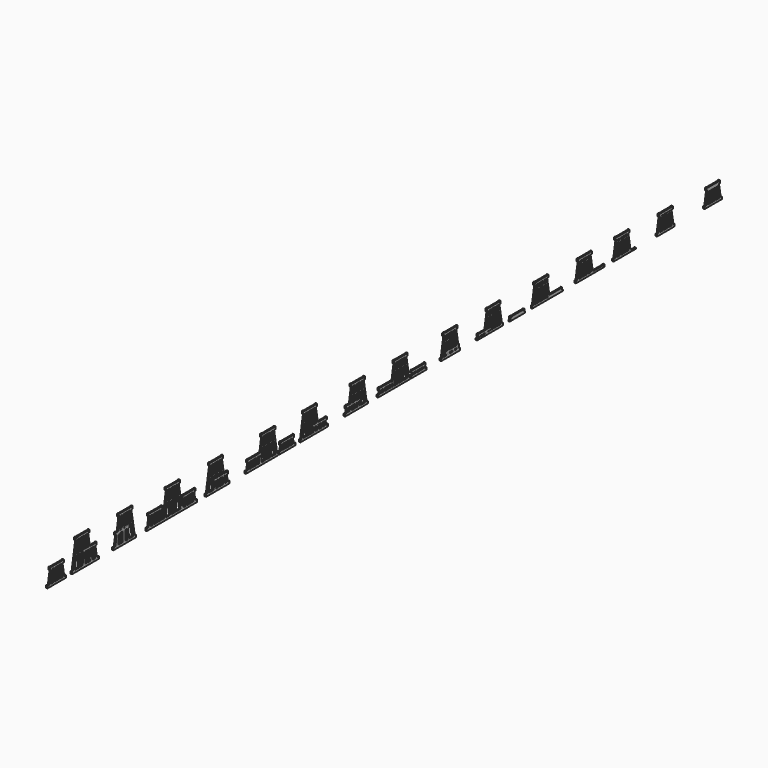
from build123d import *

# Parameters (mm, degrees)
F2_DEPTH = 5
F3_DEPTH = 5


with BuildPart() as f2:
    # F0 (on Right) → F2 (new body)
    with BuildSketch(Plane.YZ):
        Polygon((197.092332, 104.5), (172.592332, 104.5), (172.592332, 102.5), (172.092332, 102.5), (172.092332, 105.5), (167.092332, 105.5), (167.092332, 96.5), (172.592332, 96.5), (156.987394, 8), (151.987394, 8), (151.987394, 0), (242.19727, 0), (242.19727, 8), (237.19727, 8), (221.592332, 96.5), (227.092332, 96.5), (227.092332, 105.5), (222.092332, 105.5), (222.092332, 102.5), (221.592332, 102.5), (221.592332, 104.5), align=None)
        Polygon((184.592332, 8), (164.487394, 8), (170.677071, 49.8), (184.592332, 49.8), align=None, mode=Mode.SUBTRACT)
        Polygon((189.592332, 8), (189.592332, 49.8), (197.092332, 49.8), (204.592332, 49.8), (204.592332, 8), (197.092332, 8), align=None, mode=Mode.SUBTRACT)
        Polygon((209.592332, 8), (209.592332, 49.8), (223.507593, 49.8), (229.69727, 8), align=None, mode=Mode.SUBTRACT)
        Polygon((171.417463, 54.8), (177.592332, 96.5), (184.592332, 96.5), (184.592332, 54.8), align=None, mode=Mode.SUBTRACT)
        Polygon((197.092332, 54.8), (189.592332, 54.8), (189.592332, 96.5), (197.092332, 96.5), (204.592332, 96.5), (204.592332, 54.8), align=None, mode=Mode.SUBTRACT)
        Polygon((222.767201, 54.8), (209.592332, 54.8), (209.592332, 96.5), (216.592332, 96.5), align=None, mode=Mode.SUBTRACT)
        Polygon((383.200377, 100.6), (358.700377, 100.6), (358.700377, 98.6), (358.200377, 98.6), (358.200377, 101.6), (353.200377, 101.6), (353.200377, 92.6), (358.700377, 92.6), (343.783115, 8), (338.783115, 8), (338.783115, 0), (427.61764, 0), (427.61764, 8), (422.61764, 8), (407.700377, 92.6), (413.200377, 92.6), (413.200377, 101.6), (408.200377, 101.6), (408.200377, 98.6), (407.700377, 98.6), (407.700377, 100.6), align=None)
        Polygon((370.700377, 8), (351.283115, 8), (357.418358, 49.8), (370.700377, 49.8), align=None, mode=Mode.SUBTRACT)
        Polygon((375.700377, 8), (375.700377, 49.8), (383.200377, 49.8), (390.700377, 49.8), (390.700377, 8), (383.200377, 8), align=None, mode=Mode.SUBTRACT)
        Polygon((395.700377, 8), (395.700377, 49.8), (408.982397, 49.8), (415.11764, 8), align=None, mode=Mode.SUBTRACT)
        Polygon((358.152239, 54.8), (363.700377, 92.6), (370.700377, 92.6), (370.700377, 54.8), align=None, mode=Mode.SUBTRACT)
        Polygon((383.200377, 54.8), (375.700377, 54.8), (375.700377, 92.6), (383.200377, 92.6), (390.700377, 92.6), (390.700377, 54.8), align=None, mode=Mode.SUBTRACT)
        Polygon((408.248516, 54.8), (395.700377, 54.8), (395.700377, 92.6), (402.700377, 92.6), align=None, mode=Mode.SUBTRACT)
        Polygon((587.840416, 96.7), (563.340416, 96.7), (563.340416, 94.7), (562.840416, 94.7), (562.840416, 97.7), (557.840416, 97.7), (557.840416, 88.7), (563.340416, 88.7), (549.110828, 8), (544.110828, 8), (544.110828, 0), (631.570003, 0), (631.570003, 8), (626.570003, 8), (612.340416, 88.7), (617.840416, 88.7), (617.840416, 97.7), (612.840416, 97.7), (612.840416, 94.7), (612.340416, 94.7), (612.340416, 96.7), align=None)
        Polygon((575.340416, 8), (556.610828, 8), (562.686377, 49.8), (575.340416, 49.8), align=None, mode=Mode.SUBTRACT)
        Polygon((580.340416, 8), (580.340416, 49.8), (587.840416, 49.8), (595.340416, 49.8), (595.340416, 8), (587.840416, 8), align=None, mode=Mode.SUBTRACT)
        Polygon((600.340416, 8), (600.340416, 49.8), (612.994455, 49.8), (619.070003, 8), align=None, mode=Mode.SUBTRACT)
        Polygon((563.413117, 54.8), (568.340416, 88.7), (575.340416, 88.7), (575.340416, 54.8), align=None, mode=Mode.SUBTRACT)
        Polygon((587.840416, 54.8), (580.340416, 54.8), (580.340416, 88.7), (587.840416, 88.7), (595.340416, 88.7), (595.340416, 54.8), align=None, mode=Mode.SUBTRACT)
        Polygon((612.267714, 54.8), (600.340416, 54.8), (600.340416, 88.7), (607.340416, 88.7), align=None, mode=Mode.SUBTRACT)
        Polygon((773.948461, 95.8), (749.448461, 95.8), (749.448461, 93.8), (748.948461, 93.8), (748.948461, 96.8), (743.948461, 96.8), (743.948461, 87.8), (749.448461, 87.8), (735.377568, 8), (730.377568, 8), (730.377568, 0), (817.519354, 0), (817.519354, 8), (812.519354, 8), (798.448461, 87.8), (803.948461, 87.8), (803.948461, 96.8), (798.948461, 96.8), (798.948461, 93.8), (798.448461, 93.8), (798.448461, 95.8), align=None)
        Polygon((761.448461, 8), (742.877568, 8), (748.938512, 49.8), (761.448461, 49.8), align=None, mode=Mode.SUBTRACT)
        Polygon((766.448461, 8), (766.448461, 49.8), (773.948461, 49.8), (781.448461, 49.8), (781.448461, 8), (773.948461, 8), align=None, mode=Mode.SUBTRACT)
        Polygon((786.448461, 8), (786.448461, 49.8), (798.95841, 49.8), (805.019354, 8), align=None, mode=Mode.SUBTRACT)
        Polygon((749.663505, 54.8), (754.448461, 87.8), (761.448461, 87.8), (761.448461, 54.8), align=None, mode=Mode.SUBTRACT)
        Polygon((773.948461, 54.8), (766.448461, 54.8), (766.448461, 87.8), (773.948461, 87.8), (781.448461, 87.8), (781.448461, 54.8), align=None, mode=Mode.SUBTRACT)
        Polygon((798.233417, 54.8), (786.448461, 54.8), (786.448461, 87.8), (793.448461, 87.8), align=None, mode=Mode.SUBTRACT)
        Polygon((998.653591, 91.9), (974.153591, 91.9), (974.153591, 89.9), (973.653591, 89.9), (973.653591, 92.9), (968.653591, 92.9), (968.653591, 83.9), (974.153591, 83.9), (960.770373, 8), (955.770373, 8), (955.770373, 0), (1041.536809, 0), (1041.536809, 8), (1036.536809, 8), (1023.153591, 83.9), (1028.653591, 83.9), (1028.653591, 92.9), (1023.653591, 92.9), (1023.653591, 89.9), (1023.153591, 89.9), (1023.153591, 91.9), align=None)
        Polygon((986.153591, 8), (968.270373, 8), (974.264029, 49.8), (986.153591, 49.8), align=None, mode=Mode.SUBTRACT)
        Polygon((991.153591, 8), (991.153591, 49.8), (998.653591, 49.8), (1006.153591, 49.8), (1006.153591, 8), (998.653591, 8), align=None, mode=Mode.SUBTRACT)
        Polygon((1011.153591, 8), (1011.153591, 49.8), (1023.043152, 49.8), (1029.036809, 8), align=None, mode=Mode.SUBTRACT)
        Polygon((974.980974, 54.8), (979.153591, 83.9), (986.153591, 83.9), (986.153591, 54.8), align=None, mode=Mode.SUBTRACT)
        Polygon((998.653591, 54.8), (991.153591, 54.8), (991.153591, 83.9), (998.653591, 83.9), (1006.153591, 83.9), (1006.153591, 54.8), align=None, mode=Mode.SUBTRACT)
        Polygon((1022.326208, 54.8), (1011.153591, 54.8), (1011.153591, 83.9), (1018.153591, 83.9), align=None, mode=Mode.SUBTRACT)
        Polygon((1178.728461, 88), (1154.228461, 88), (1154.228461, 86), (1153.728461, 86), (1153.728461, 89), (1148.728461, 89), (1148.728461, 80), (1154.228461, 80), (1141.532919, 8), (1136.532919, 8), (1136.532919, 0), (1220.924004, 0), (1220.924004, 8), (1215.924004, 8), (1203.228461, 80), (1208.728461, 80), (1208.728461, 89), (1203.728461, 89), (1203.728461, 86), (1203.228461, 86), (1203.228461, 88), align=None)
        Polygon((1166.228461, 8), (1149.032919, 8), (1154.951998, 49.8), (1166.228461, 49.8), align=None, mode=Mode.SUBTRACT)
        Polygon((1171.228461, 8), (1171.228461, 49.8), (1178.728461, 49.8), (1186.228461, 49.8), (1186.228461, 8), (1178.728461, 8), align=None, mode=Mode.SUBTRACT)
        Polygon((1191.228461, 8), (1191.228461, 49.8), (1202.504925, 49.8), (1208.424004, 8), align=None, mode=Mode.SUBTRACT)
        Polygon((1155.660021, 54.8), (1159.228461, 80), (1166.228461, 80), (1166.228461, 54.8), align=None, mode=Mode.SUBTRACT)
        Polygon((1178.728461, 54.8), (1171.228461, 54.8), (1171.228461, 80), (1178.728461, 80), (1186.228461, 80), (1186.228461, 54.8), align=None, mode=Mode.SUBTRACT)
        Polygon((1201.796901, 54.8), (1191.228461, 54.8), (1191.228461, 80), (1198.228461, 80), align=None, mode=Mode.SUBTRACT)
        Polygon((1385.064244, 87.1), (1360.564244, 87.1), (1360.564244, 85.1), (1360.064244, 85.1), (1360.064244, 88.1), (1355.064244, 88.1), (1355.064244, 79.1), (1360.564244, 79.1), (1348.027396, 8), (1343.027396, 8), (1343.027396, 0), (1427.101093, 0), (1427.101093, 8), (1422.101093, 8), (1409.564244, 79.1), (1415.064244, 79.1), (1415.064244, 88.1), (1410.064244, 88.1), (1410.064244, 85.1), (1409.564244, 85.1), (1409.564244, 87.1), align=None)
        Polygon((1372.564244, 8), (1355.527396, 8), (1361.428103, 49.8), (1372.564244, 49.8), align=None, mode=Mode.SUBTRACT)
        Polygon((1377.564244, 8), (1377.564244, 49.8), (1385.064244, 49.8), (1392.564244, 49.8), (1392.564244, 8), (1385.064244, 8), align=None, mode=Mode.SUBTRACT)
        Polygon((1397.564244, 8), (1397.564244, 49.8), (1408.700386, 49.8), (1414.601093, 8), align=None, mode=Mode.SUBTRACT)
        Polygon((1362.133929, 54.8), (1365.564244, 79.1), (1372.564244, 79.1), (1372.564244, 54.8), align=None, mode=Mode.SUBTRACT)
        Polygon((1385.064244, 54.8), (1377.564244, 54.8), (1377.564244, 79.1), (1385.064244, 79.1), (1392.564244, 79.1), (1392.564244, 54.8), align=None, mode=Mode.SUBTRACT)
        Polygon((1407.99456, 54.8), (1397.564244, 54.8), (1397.564244, 79.1), (1404.564244, 79.1), align=None, mode=Mode.SUBTRACT)
        Polygon((1568.89081, 83.2), (1544.39081, 83.2), (1544.39081, 81.2), (1543.89081, 81.2), (1543.89081, 84.2), (1538.89081, 84.2), (1538.89081, 75.2), (1544.39081, 75.2), (1532.541637, 8), (1527.541637, 8), (1527.541637, 0), (1610.239983, 0), (1610.239983, 8), (1605.239983, 8), (1593.39081, 75.2), (1598.89081, 75.2), (1598.89081, 84.2), (1593.89081, 84.2), (1593.89081, 81.2), (1593.39081, 81.2), (1593.39081, 83.2), align=None)
        Polygon((1556.39081, 8), (1540.041637, 8), (1545.857045, 49.8), (1556.39081, 49.8), align=None, mode=Mode.SUBTRACT)
        Polygon((1561.39081, 8), (1561.39081, 49.8), (1568.89081, 49.8), (1576.39081, 49.8), (1576.39081, 8), (1568.89081, 8), align=None, mode=Mode.SUBTRACT)
        Polygon((1581.39081, 8), (1581.39081, 49.8), (1591.924575, 49.8), (1597.739983, 8), align=None, mode=Mode.SUBTRACT)
        Polygon((1546.552668, 54.8), (1549.39081, 75.2), (1556.39081, 75.2), (1556.39081, 54.8), align=None, mode=Mode.SUBTRACT)
        Polygon((1568.89081, 54.8), (1561.39081, 54.8), (1561.39081, 75.2), (1568.89081, 75.2), (1576.39081, 75.2), (1576.39081, 54.8), align=None, mode=Mode.SUBTRACT)
        Polygon((1591.228952, 54.8), (1581.39081, 54.8), (1581.39081, 75.2), (1588.39081, 75.2), align=None, mode=Mode.SUBTRACT)
        Polygon((1783.753671, 79.3), (1759.253671, 79.3), (1759.253671, 77.3), (1758.753671, 77.3), (1758.753671, 80.3), (1753.753671, 80.3), (1753.753671, 71.3), (1759.253671, 71.3), (1748.092173, 8), (1743.092173, 8), (1743.092173, 0), (1824.415169, 0), (1824.415169, 8), (1819.415169, 8), (1808.253671, 71.3), (1813.753671, 71.3), (1813.753671, 80.3), (1808.753671, 80.3), (1808.753671, 77.3), (1808.253671, 77.3), (1808.253671, 79.3), align=None)
        Polygon((1771.253671, 8), (1755.592173, 8), (1761.311772, 49.8), (1771.253671, 49.8), align=None, mode=Mode.SUBTRACT)
        Polygon((1776.253671, 8), (1776.253671, 49.8), (1783.753671, 49.8), (1791.253671, 49.8), (1791.253671, 8), (1783.753671, 8), align=None, mode=Mode.SUBTRACT)
        Polygon((1796.253671, 8), (1796.253671, 49.8), (1806.19557, 49.8), (1811.915169, 8), align=None, mode=Mode.SUBTRACT)
        Polygon((1761.995934, 54.8), (1764.253671, 71.3), (1771.253671, 71.3), (1771.253671, 54.8), align=None, mode=Mode.SUBTRACT)
        Polygon((1783.753671, 54.8), (1776.253671, 54.8), (1776.253671, 71.3), (1783.753671, 71.3), (1791.253671, 71.3), (1791.253671, 54.8), align=None, mode=Mode.SUBTRACT)
        Polygon((1805.511407, 54.8), (1796.253671, 54.8), (1796.253671, 71.3), (1803.253671, 71.3), align=None, mode=Mode.SUBTRACT)
        Polygon((1969.861716, 78.4), (1945.361716, 78.4), (1945.361716, 76.4), (1944.861716, 76.4), (1944.861716, 79.4), (1939.861716, 79.4), (1939.861716, 70.4), (1945.361716, 70.4), (1934.358912, 8), (1929.358912, 8), (1929.358912, 0), (2010.36452, 0), (2010.36452, 8), (2005.36452, 8), (1994.361716, 70.4), (1999.861716, 70.4), (1999.861716, 79.4), (1994.861716, 79.4), (1994.861716, 76.4), (1994.361716, 76.4), (1994.361716, 78.4), align=None)
        Polygon((1957.361716, 8), (1941.858912, 8), (1947.554701, 49.8), (1957.361716, 49.8), align=None, mode=Mode.SUBTRACT)
        Polygon((1962.361716, 8), (1962.361716, 49.8), (1969.861716, 49.8), (1977.361716, 49.8), (1977.361716, 8), (1969.861716, 8), align=None, mode=Mode.SUBTRACT)
        Polygon((1982.361716, 8), (1982.361716, 49.8), (1992.168731, 49.8), (1997.86452, 8), align=None, mode=Mode.SUBTRACT)
        Polygon((1948.236015, 54.8), (1950.361716, 70.4), (1957.361716, 70.4), (1957.361716, 54.8), align=None, mode=Mode.SUBTRACT)
        Polygon((1969.861716, 54.8), (1962.361716, 54.8), (1962.361716, 70.4), (1969.861716, 70.4), (1977.361716, 70.4), (1977.361716, 54.8), align=None, mode=Mode.SUBTRACT)
        Polygon((1991.487417, 54.8), (1982.361716, 54.8), (1982.361716, 70.4), (1989.361716, 70.4), align=None, mode=Mode.SUBTRACT)
        Polygon((2175.497293, 74), (2150.997293, 74), (2150.997293, 72), (2150.497293, 72), (2150.497293, 75), (2145.497293, 75), (2145.497293, 66), (2150.997293, 66), (2140.770329, 8), (2135.770329, 8), (2135.770329, 0), (2215.224258, 0), (2215.224258, 8), (2210.224258, 8), (2199.997293, 66), (2205.497293, 66), (2205.497293, 75), (2200.497293, 75), (2200.497293, 72), (2199.997293, 72), (2199.997293, 74), align=None)
        Polygon((2162.997293, 8), (2148.270329, 8), (2153.839072, 49.8), (2162.997293, 49.8), align=None, mode=Mode.SUBTRACT)
        Polygon((2167.997293, 8), (2167.997293, 49.8), (2175.497293, 49.8), (2182.997293, 49.8), (2182.997293, 8), (2175.497293, 8), align=None, mode=Mode.SUBTRACT)
        Polygon((2187.997293, 8), (2187.997293, 49.8), (2197.155515, 49.8), (2202.724258, 8), align=None, mode=Mode.SUBTRACT)
        Polygon((2154.50519, 54.8), (2155.997293, 66), (2162.997293, 66), (2162.997293, 54.8), align=None, mode=Mode.SUBTRACT)
        Polygon((2175.497293, 54.8), (2167.997293, 54.8), (2167.997293, 66), (2175.497293, 66), (2182.997293, 66), (2182.997293, 54.8), align=None, mode=Mode.SUBTRACT)
        Polygon((2196.489397, 54.8), (2187.997293, 54.8), (2187.997293, 66), (2194.997293, 66), align=None, mode=Mode.SUBTRACT)
        Polygon((2362.875223, 69.6), (2338.375223, 69.6), (2338.375223, 67.6), (2337.875223, 67.6), (2337.875223, 70.6), (2332.875223, 70.6), (2332.875223, 61.6), (2338.375223, 61.6), (2328.924097, 8), (2323.924097, 8), (2323.924097, 0), (2401.826349, 0), (2401.826349, 8), (2396.826349, 8), (2387.375223, 61.6), (2392.875223, 61.6), (2392.875223, 70.6), (2387.875223, 70.6), (2387.875223, 67.6), (2387.375223, 67.6), (2387.375223, 69.6), align=None)
        Polygon((2350.375223, 8), (2336.424097, 8), (2341.844938, 49.8), (2350.375223, 49.8), align=None, mode=Mode.SUBTRACT)
        Polygon((2355.375223, 8), (2355.375223, 49.8), (2362.875223, 49.8), (2370.375223, 49.8), (2370.375223, 8), (2362.875223, 8), align=None, mode=Mode.SUBTRACT)
        Polygon((2375.375223, 8), (2375.375223, 49.8), (2383.905508, 49.8), (2389.326349, 8), align=None, mode=Mode.SUBTRACT)
        Polygon((2342.493364, 54.8), (2343.375223, 61.6), (2350.375223, 61.6), (2350.375223, 54.8), align=None, mode=Mode.SUBTRACT)
        Polygon((2362.875223, 54.8), (2355.375223, 54.8), (2355.375223, 61.6), (2362.875223, 61.6), (2370.375223, 61.6), (2370.375223, 54.8), align=None, mode=Mode.SUBTRACT)
        Polygon((2383.257082, 54.8), (2375.375223, 54.8), (2375.375223, 61.6), (2382.375223, 61.6), align=None, mode=Mode.SUBTRACT)
        Polygon((2525.467902, 68.5), (2500.967902, 68.5), (2500.967902, 66.5), (2500.467902, 66.5), (2500.467902, 69.5), (2495.467902, 69.5), (2495.467902, 60.5), (2500.967902, 60.5), (2491.710735, 8), (2486.710735, 8), (2486.710735, 0), (2564.225068, 0), (2564.225068, 8), (2559.225068, 8), (2549.967902, 60.5), (2555.467902, 60.5), (2555.467902, 69.5), (2550.467902, 69.5), (2550.467902, 66.5), (2549.967902, 66.5), (2549.967902, 68.5), align=None)
        Polygon((2512.967902, 8), (2499.210735, 8), (2504.590727, 49.8), (2512.967902, 49.8), align=None, mode=Mode.SUBTRACT)
        Polygon((2517.967902, 8), (2517.967902, 49.8), (2525.467902, 49.8), (2532.967902, 49.8), (2532.967902, 8), (2525.467902, 8), align=None, mode=Mode.SUBTRACT)
        Polygon((2537.967902, 8), (2537.967902, 49.8), (2546.345077, 49.8), (2551.725068, 8), align=None, mode=Mode.SUBTRACT)
        Polygon((2505.234267, 54.8), (2505.967902, 60.5), (2512.967902, 60.5), (2512.967902, 54.8), align=None, mode=Mode.SUBTRACT)
        Polygon((2525.467902, 54.8), (2517.967902, 54.8), (2517.967902, 60.5), (2525.467902, 60.5), (2532.967902, 60.5), (2532.967902, 54.8), align=None, mode=Mode.SUBTRACT)
        Polygon((2545.701537, 54.8), (2537.967902, 54.8), (2537.967902, 60.5), (2544.967902, 60.5), align=None, mode=Mode.SUBTRACT)
        Polygon((2711.575947, 64.1), (2687.075947, 64.1), (2687.075947, 62.1), (2686.575947, 62.1), (2686.575947, 65.1), (2681.575947, 65.1), (2681.575947, 56.1), (2687.075947, 56.1), (2678.594619, 8), (2673.594619, 8), (2673.594619, 0), (2749.557275, 0), (2749.557275, 8), (2744.557275, 8), (2736.075947, 56.1), (2741.575947, 56.1), (2741.575947, 65.1), (2736.575947, 65.1), (2736.575947, 62.1), (2736.075947, 62.1), (2736.075947, 64.1), align=None)
        Polygon((2699.075947, 8), (2686.094619, 8), (2691.29253, 49.8), (2699.075947, 49.8), align=None, mode=Mode.SUBTRACT)
        Polygon((2704.075947, 8), (2704.075947, 49.8), (2711.575947, 49.8), (2719.075947, 49.8), (2719.075947, 8), (2711.575947, 8), align=None, mode=Mode.SUBTRACT)
        Polygon((2724.075947, 8), (2724.075947, 49.8), (2731.859364, 49.8), (2737.057275, 8), align=None, mode=Mode.SUBTRACT)
        Polygon((2691.91429, 54.8), (2692.075947, 56.1), (2699.075947, 56.1), (2699.075947, 54.8), align=None, mode=Mode.SUBTRACT)
        Polygon((2711.575947, 54.8), (2704.075947, 54.8), (2704.075947, 56.1), (2711.575947, 56.1), (2719.075947, 56.1), (2719.075947, 54.8), align=None, mode=Mode.SUBTRACT)
        Polygon((2731.237605, 54.8), (2724.075947, 54.8), (2724.075947, 56.1), (2731.075947, 56.1), align=None, mode=Mode.SUBTRACT)
        Polygon((2916.215985, 59.7), (2891.715985, 59.7), (2891.715985, 57.7), (2891.215985, 57.7), (2891.215985, 60.7), (2886.215985, 60.7), (2886.215985, 51.7), (2891.715985, 51.7), (2884.010496, 8), (2879.010496, 8), (2879.010496, 0), (2953.421474, 0), (2953.421474, 8), (2948.421474, 8), (2940.715985, 51.7), (2946.215985, 51.7), (2946.215985, 60.7), (2941.215985, 60.7), (2941.215985, 57.7), (2940.715985, 57.7), (2940.715985, 59.7), align=None)
        Polygon((2903.715985, 8), (2891.510496, 8), (2896.120392, 46.7), (2903.715985, 46.7), align=None, mode=Mode.SUBTRACT)
        Polygon((2908.715985, 8), (2908.715985, 46.7), (2916.215985, 46.7), (2923.715985, 46.7), (2923.715985, 8), (2916.215985, 8), align=None, mode=Mode.SUBTRACT)
        Polygon((2928.715985, 8), (2928.715985, 46.7), (2936.311579, 46.7), (2940.921474, 8), align=None, mode=Mode.SUBTRACT)
    extrude(amount=F2_DEPTH)


with BuildPart() as f3:
    # F1 (on Right) → F3 (new body)
    with BuildSketch(Plane.YZ):
        Polygon((86.548877, 58.6), (62.048877, 58.6), (62.048877, 56.6), (61.548877, 56.6), (61.548877, 59.6), (56.548877, 59.6), (56.548877, 50.6), (62.048877, 50.6), (54.537348, 8), (46.537348, 8), (46.537348, 0), (126.560406, 0), (126.560406, 8), (118.560406, 8), (111.048877, 50.6), (116.548877, 50.6), (116.548877, 59.6), (111.548877, 59.6), (111.548877, 56.6), (111.048877, 56.6), (111.048877, 58.6), align=None)
        Polygon((62.037348, 8), (67.048877, 50.6), (74.048877, 50.6), (74.048877, 8), align=None, mode=Mode.SUBTRACT)
        Polygon((79.048877, 8), (79.048877, 50.6), (86.548877, 50.6), (94.048877, 50.6), (94.048877, 8), (86.548877, 8), align=None, mode=Mode.SUBTRACT)
        Polygon((99.048877, 50.6), (106.048877, 50.6), (111.060406, 8), (99.048877, 8), align=None, mode=Mode.SUBTRACT)
        Polygon((228.46985, 54.1), (203.96985, 54.1), (203.96985, 52.1), (203.46985, 52.1), (203.46985, 55.1), (198.46985, 55.1), (198.46985, 46.1), (203.96985, 46.1), (197.251792, 8), (189.251792, 8), (189.251792, 0), (267.687908, 0), (267.687908, 8), (259.687908, 8), (252.96985, 46.1), (258.46985, 46.1), (258.46985, 55.1), (253.46985, 55.1), (253.46985, 52.1), (252.96985, 52.1), (252.96985, 54.1), align=None)
        Polygon((204.751792, 8), (208.96985, 46.1), (215.96985, 46.1), (215.96985, 8), align=None, mode=Mode.SUBTRACT)
        Polygon((220.96985, 8), (220.96985, 46.1), (228.46985, 46.1), (235.96985, 46.1), (235.96985, 8), (228.46985, 8), align=None, mode=Mode.SUBTRACT)
        Polygon((240.96985, 46.1), (247.96985, 46.1), (252.187908, 8), (240.96985, 8), align=None, mode=Mode.SUBTRACT)
        Polygon((369.088858, 49.7), (344.588858, 49.7), (344.588858, 47.7), (344.088858, 47.7), (344.088858, 50.7), (339.088858, 50.7), (339.088858, 41.7), (344.588858, 41.7), (338.646639, 8), (330.646639, 8), (330.646639, 0), (407.531078, 0), (407.531078, 8), (399.531078, 8), (393.588858, 41.7), (399.088858, 41.7), (399.088858, 50.7), (394.088858, 50.7), (394.088858, 47.7), (393.588858, 47.7), (393.588858, 49.7), align=None)
        Polygon((346.146639, 8), (349.588858, 41.7), (356.588858, 41.7), (356.588858, 8), align=None, mode=Mode.SUBTRACT)
        Polygon((361.588858, 8), (361.588858, 41.7), (369.088858, 41.7), (376.588858, 41.7), (376.588858, 8), (369.088858, 8), align=None, mode=Mode.SUBTRACT)
        Polygon((381.588858, 41.7), (388.588858, 41.7), (392.031078, 8), (381.588858, 8), align=None, mode=Mode.SUBTRACT)
        Polygon((512.311794, 48.6), (487.811794, 48.6), (487.811794, 46.6), (487.311794, 46.6), (487.311794, 49.6), (482.311794, 49.6), (482.311794, 40.6), (487.811794, 40.6), (482.063535, 8), (474.063535, 8), (474.063535, 0), (550.560054, 0), (550.560054, 8), (542.560054, 8), (536.811794, 40.6), (542.311794, 40.6), (542.311794, 49.6), (537.311794, 49.6), (537.311794, 46.6), (536.811794, 46.6), (536.811794, 48.6), align=None)
        Polygon((489.563535, 8), (492.811794, 40.6), (499.811794, 40.6), (499.811794, 8), align=None, mode=Mode.SUBTRACT)
        Polygon((504.811794, 8), (504.811794, 40.6), (512.311794, 40.6), (519.811794, 40.6), (519.811794, 8), (512.311794, 8), align=None, mode=Mode.SUBTRACT)
        Polygon((524.811794, 40.6), (531.811794, 40.6), (535.060054, 8), (524.811794, 8), align=None, mode=Mode.SUBTRACT)
        Polygon((654.232767, 44.2), (629.732767, 44.2), (629.732767, 42.2), (629.232767, 42.2), (629.232767, 45.2), (624.232767, 45.2), (624.232767, 36.2), (629.732767, 36.2), (624.760346, 8), (616.760346, 8), (616.760346, 0), (691.705188, 0), (691.705188, 8), (683.705188, 8), (678.732767, 36.2), (684.232767, 36.2), (684.232767, 45.2), (679.232767, 45.2), (679.232767, 42.2), (678.732767, 42.2), (678.732767, 44.2), align=None)
        Polygon((632.260346, 8), (634.732767, 36.2), (641.732767, 36.2), (641.732767, 8), align=None, mode=Mode.SUBTRACT)
        Polygon((646.732767, 8), (646.732767, 36.2), (654.232767, 36.2), (661.732767, 36.2), (661.732767, 8), (654.232767, 8), align=None, mode=Mode.SUBTRACT)
        Polygon((666.732767, 36.2), (673.732767, 36.2), (676.205188, 8), (666.732767, 8), align=None, mode=Mode.SUBTRACT)
        Polygon((794.851776, 39.8), (770.351776, 39.8), (770.351776, 37.8), (769.851776, 37.8), (769.851776, 40.8), (764.851776, 40.8), (764.851776, 31.8), (770.351776, 31.8), (766.155194, 8), (758.155194, 8), (758.155194, 0), (831.548358, 0), (831.548358, 8), (823.548358, 8), (819.351776, 31.8), (824.851776, 31.8), (824.851776, 40.8), (819.851776, 40.8), (819.851776, 37.8), (819.351776, 37.8), (819.351776, 39.8), align=None)
        Polygon((773.655194, 8), (775.351776, 31.8), (782.351776, 31.8), (782.351776, 8), align=None, mode=Mode.SUBTRACT)
        Polygon((787.351776, 8), (787.351776, 31.8), (794.851776, 31.8), (802.351776, 31.8), (802.351776, 8), (794.851776, 8), align=None, mode=Mode.SUBTRACT)
        Polygon((807.351776, 31.8), (814.351776, 31.8), (816.048358, 8), (807.351776, 8), align=None, mode=Mode.SUBTRACT)
        Polygon((938.074712, 38.7), (913.574712, 38.7), (913.574712, 36.7), (913.074712, 36.7), (913.074712, 39.7), (908.074712, 39.7), (908.074712, 30.7), (913.574712, 30.7), (909.572089, 8), (901.572089, 8), (901.572089, 0), (974.577334, 0), (974.577334, 8), (966.577334, 8), (962.574712, 30.7), (968.074712, 30.7), (968.074712, 39.7), (963.074712, 39.7), (963.074712, 36.7), (962.574712, 36.7), (962.574712, 38.7), align=None)
        Polygon((917.072089, 8), (918.574712, 30.7), (925.574712, 30.7), (925.574712, 8), align=None, mode=Mode.SUBTRACT)
        Polygon((930.574712, 8), (930.574712, 30.7), (938.074712, 30.7), (945.574712, 30.7), (945.574712, 8), (938.074712, 8), align=None, mode=Mode.SUBTRACT)
        Polygon((950.574712, 30.7), (957.574712, 30.7), (959.077334, 8), (950.574712, 8), align=None, mode=Mode.SUBTRACT)
        Polygon((1079.995684, 34.8), (1055.495684, 34.8), (1055.495684, 32.8), (1054.995684, 32.8), (1054.995684, 35.8), (1049.995684, 35.8), (1049.995684, 26.8), (1055.495684, 26.8), (1052.180737, 8), (1044.180737, 8), (1044.180737, 0), (1115.810631, 0), (1115.810631, 8), (1107.810631, 8), (1104.495684, 26.8), (1109.995684, 26.8), (1109.995684, 35.8), (1104.995684, 35.8), (1104.995684, 32.8), (1104.495684, 32.8), (1104.495684, 34.8), align=None)
        Polygon((1059.680737, 8), (1060.495684, 26.8), (1067.495684, 26.8), (1067.495684, 8), align=None, mode=Mode.SUBTRACT)
        Polygon((1072.495684, 8), (1072.495684, 26.8), (1079.995684, 26.8), (1087.495684, 26.8), (1087.495684, 8), (1079.995684, 8), align=None, mode=Mode.SUBTRACT)
        Polygon((1092.495684, 26.8), (1099.495684, 26.8), (1100.310631, 8), (1092.495684, 8), align=None, mode=Mode.SUBTRACT)
        Polygon((1220.614693, 30.9), (1196.114693, 30.9), (1196.114693, 28.9), (1195.614693, 28.9), (1195.614693, 31.9), (1190.614693, 31.9), (1190.614693, 22.9), (1196.114693, 22.9), (1193.487421, 8), (1185.487421, 8), (1185.487421, 0), (1255.741965, 0), (1255.741965, 8), (1247.741965, 8), (1245.114693, 22.9), (1250.614693, 22.9), (1250.614693, 31.9), (1245.614693, 31.9), (1245.614693, 28.9), (1245.114693, 28.9), (1245.114693, 30.9), align=None)
        Polygon((1200.987421, 8), (1201.114693, 22.9), (1208.114693, 22.9), (1208.114693, 8), align=None, mode=Mode.SUBTRACT)
        Polygon((1213.114693, 8), (1213.114693, 22.9), (1220.614693, 22.9), (1228.114693, 22.9), (1228.114693, 8), (1220.614693, 8), align=None, mode=Mode.SUBTRACT)
        Polygon((1233.114693, 22.9), (1240.114693, 22.9), (1240.241965, 8), (1233.114693, 8), align=None, mode=Mode.SUBTRACT)
        Polygon((1363.837629, 30), (1339.337629, 30), (1339.337629, 28), (1338.837629, 28), (1338.837629, 31), (1333.837629, 31), (1333.837629, 22), (1339.337629, 22), (1336.869051, 8), (1328.869051, 8), (1328.869051, 0), (1398.806207, 0), (1398.806207, 8), (1390.806207, 8), (1388.337629, 22), (1393.837629, 22), (1393.837629, 31), (1388.837629, 31), (1388.837629, 28), (1388.337629, 28), (1388.337629, 30), align=None)
        Polygon((1344.369051, 8), (1344.337629, 22), (1351.337629, 22), (1351.337629, 8), align=None, mode=Mode.SUBTRACT)
        Polygon((1356.337629, 8), (1356.337629, 22), (1363.837629, 22), (1371.337629, 22), (1371.337629, 8), (1363.837629, 8), align=None, mode=Mode.SUBTRACT)
        Polygon((1376.337629, 22), (1383.337629, 22), (1383.306207, 8), (1376.337629, 8), align=None, mode=Mode.SUBTRACT)
        Polygon((1505.758601, 26.1), (1481.258601, 26.1), (1481.258601, 24.1), (1480.758601, 24.1), (1480.758601, 27.1), (1475.758601, 27.1), (1475.758601, 18.1), (1481.258601, 18.1), (1479.477699, 8), (1471.477699, 8), (1471.477699, 0), (1540.039504, 0), (1540.039504, 8), (1532.039504, 8), (1530.258601, 18.1), (1535.758601, 18.1), (1535.758601, 27.1), (1530.758601, 27.1), (1530.758601, 24.1), (1530.258601, 24.1), (1530.258601, 26.1), align=None)
        Polygon((1486.977699, 8), (1486.258601, 18.1), (1493.258601, 18.1), (1493.258601, 8), align=None, mode=Mode.SUBTRACT)
        Polygon((1498.258601, 8), (1498.258601, 18.1), (1505.758601, 18.1), (1513.258601, 18.1), (1513.258601, 8), (1505.758601, 8), align=None, mode=Mode.SUBTRACT)
        Polygon((1518.258601, 18.1), (1525.258601, 18.1), (1524.539504, 8), (1518.258601, 8), align=None, mode=Mode.SUBTRACT)
        Polygon((1646.37761, 22.2), (1621.87761, 22.2), (1621.87761, 20.2), (1621.37761, 20.2), (1621.37761, 23.2), (1616.37761, 23.2), (1616.37761, 14.2), (1621.87761, 14.2), (1620.784383, 8), (1612.784383, 8), (1612.784383, 0), (1679.970838, 0), (1679.970838, 8), (1671.970838, 8), (1670.87761, 14.2), (1676.37761, 14.2), (1676.37761, 23.2), (1671.37761, 23.2), (1671.37761, 20.2), (1670.87761, 20.2), (1670.87761, 22.2), align=None)
        Polygon((1628.284383, 8), (1626.87761, 14.2), (1633.87761, 14.2), (1633.87761, 8), align=None, mode=Mode.SUBTRACT)
        Polygon((1638.87761, 8), (1638.87761, 14.2), (1646.37761, 14.2), (1653.87761, 14.2), (1653.87761, 8), (1646.37761, 8), align=None, mode=Mode.SUBTRACT)
        Polygon((1658.87761, 14.2), (1665.87761, 14.2), (1664.470838, 8), (1658.87761, 8), align=None, mode=Mode.SUBTRACT)
        Polygon((1789.600546, 21.3), (1765.100546, 21.3), (1765.100546, 19.3), (1764.600546, 19.3), (1764.600546, 22.3), (1759.600546, 22.3), (1759.600546, 13.3), (1765.100546, 13.3), (1764.166013, 8), (1756.166013, 8), (1756.166013, 0), (1823.035079, 0), (1823.035079, 8), (1815.035079, 8), (1814.100546, 13.3), (1819.600546, 13.3), (1819.600546, 22.3), (1814.600546, 22.3), (1814.600546, 19.3), (1814.100546, 19.3), (1814.100546, 21.3), align=None)
        Polygon((1771.666013, 8), (1770.100546, 13.3), (1777.100546, 13.3), (1777.100546, 8), align=None, mode=Mode.SUBTRACT)
        Polygon((1782.100546, 8), (1782.100546, 13.3), (1789.600546, 13.3), (1797.100546, 13.3), (1797.100546, 8), (1789.600546, 8), align=None, mode=Mode.SUBTRACT)
        Polygon((1802.100546, 13.3), (1809.100546, 13.3), (1807.535079, 8), (1802.100546, 8), align=None, mode=Mode.SUBTRACT)
        Polygon((1931.521519, 16.9), (1907.021519, 16.9), (1907.021519, 14.9), (1906.521519, 14.9), (1906.521519, 17.9), (1901.521519, 17.9), (1901.521519, 8.9), (1907.021519, 8.9), (1906.333844, 5), (1898.333844, 5), (1898.333844, 0), (1964.709194, 0), (1964.709194, 5), (1956.709194, 5), (1956.021519, 8.9), (1961.521519, 8.9), (1961.521519, 17.9), (1956.521519, 17.9), (1956.521519, 14.9), (1956.021519, 14.9), (1956.021519, 16.9), align=None)
        Polygon((1913.833844, 5), (1912.021519, 8.9), (1919.021519, 8.9), (1919.021519, 5), align=None, mode=Mode.SUBTRACT)
        Polygon((1924.021519, 5), (1924.021519, 8.9), (1931.521519, 8.9), (1939.021519, 8.9), (1939.021519, 5), (1931.521519, 5), align=None, mode=Mode.SUBTRACT)
        Polygon((1944.021519, 8.9), (1951.021519, 8.9), (1949.209194, 5), (1944.021519, 5), align=None, mode=Mode.SUBTRACT)
        Polygon((2072.140528, 12.5), (2047.640528, 12.5), (2047.640528, 10.5), (2047.140528, 10.5), (2047.140528, 13.5), (2042.140528, 13.5), (2042.140528, 4.5), (2038.758893, 4.5), (2038.758893, 0), (2105.522162, 0), (2105.522162, 4.5), (2102.140528, 4.5), (2102.140528, 13.5), (2097.140528, 13.5), (2097.140528, 10.5), (2096.640528, 10.5), (2096.640528, 12.5), align=None)
        Polygon((2234.88404, 11.4), (2210.38404, 11.4), (2210.38404, 9.4), (2209.88404, 9.4), (2209.88404, 12.4), (2204.88404, 12.4), (2204.88404, 3.4), (2201.502405, 3.4), (2201.502405, 0), (2268.265675, 0), (2268.265675, 3.4), (2264.88404, 3.4), (2264.88404, 12.4), (2259.88404, 12.4), (2259.88404, 9.4), (2259.38404, 9.4), (2259.38404, 11.4), align=None)
        Polygon((2417.965906, 7), (2393.465906, 7), (2393.465906, 5), (2392.965906, 5), (2392.965906, 8), (2387.965906, 8), (2387.965906, 0), (2447.965906, 0), (2447.965906, 8), (2442.965906, 8), (2442.965906, 5), (2442.465906, 5), (2442.465906, 7), align=None)
        Polygon((2553.041591, 2.5), (2528.541591, 2.5), (2528.541591, 0.5), (2528.041591, 0.5), (2528.041591, 3.5), (2523.041591, 3.5), (2523.041591, 0), (2583.041591, 0), (2583.041591, 3.5), (2578.041591, 3.5), (2578.041591, 0.5), (2577.541591, 0.5), (2577.541591, 2.5), align=None)
    extrude(amount=F3_DEPTH)


solid = Compound([f2.part, f3.part])
